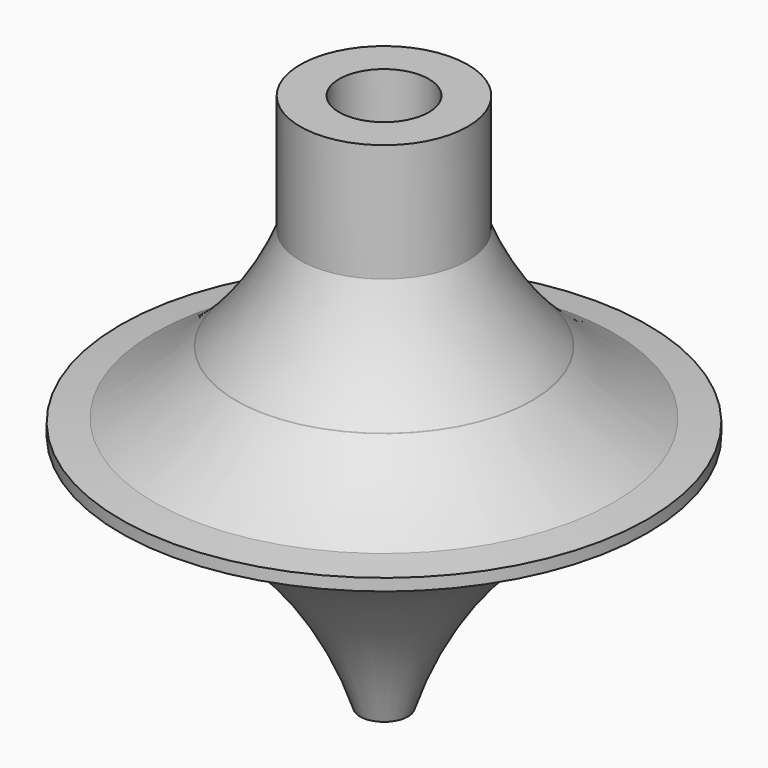
from build123d import *

# Parameters (mm, degrees)
F2_R     = 1.5875
F4_DEPTH = 17.78
F3_R     = 4.7625
F5_DEPTH = 9.525


with BuildPart() as f1:
    # F0 (on Front) → F1 (revolve)
    with BuildSketch(Plane.XZ):
        with BuildLine():
            ThreePointArc((2.54, 0), (12.131985, 15.808015), (27.94, 25.4))
            Line((27.94, 25.4), (27.94, 26.67))
            Line((27.94, 26.67), (24.353637, 27.084503))
            ThreePointArc((24.353637, 27.084503), (19.770494, 30.074042), (15.726336, 33.760141))
            ThreePointArc((15.726336, 33.760141), (15.70698, 33.780889), (15.687641, 33.801654))
            ThreePointArc((15.687641, 33.801654), (11.774382, 38.898264), (8.89, 44.640161))
            Line((8.89, 44.640161), (8.89, 57.15))
            Line((8.89, 57.15), (0, 57.15))
            Line((0, 57.15), (0, 0))
            Line((0, 0), (2.54, 0))
        make_face()
    revolve(axis=Axis((0, 0, 28.575), (0, 0, -1)))

    # F2 (on Top) → F4 (cut)
    with BuildSketch(Plane.XY):
        Circle(F2_R)
    extrude(amount=F4_DEPTH, mode=Mode.SUBTRACT)

    # F3 (on face) → F5 (cut)
    with BuildSketch(Plane.XY.offset(57.15)):
        Circle(F3_R)
    extrude(amount=-F5_DEPTH, mode=Mode.SUBTRACT)


solid = f1.part
